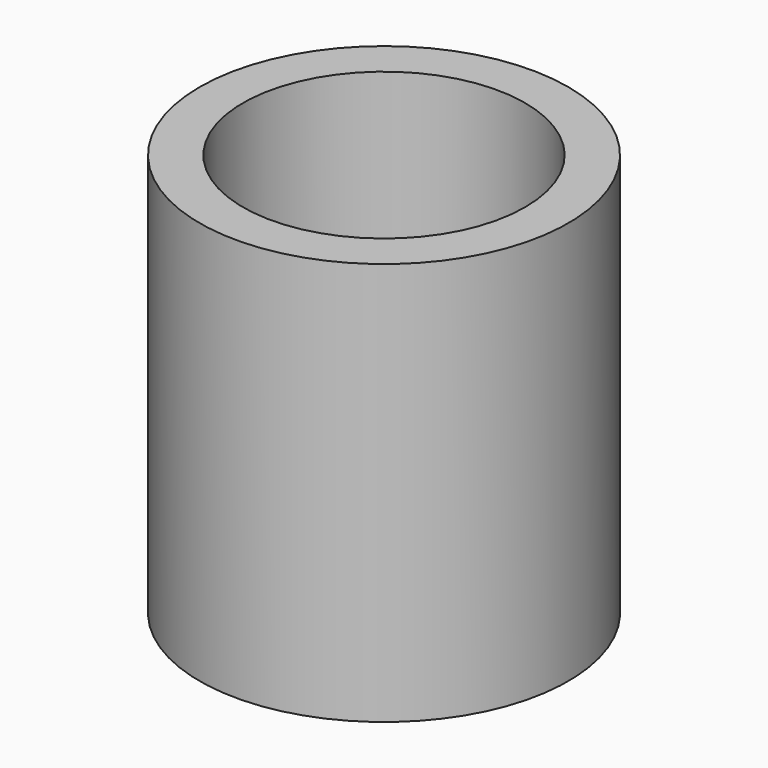
from build123d import *

# Parameters (mm, degrees)
F1_DEPTH = 5


with BuildPart() as f1:
    # F0 (on Top) → F1 (new body)
    with BuildSketch(Plane.XY):
        with BuildLine():
            Line((9.632188255, -3.5250303335), (10.168188255, -3.5250303335))
            ThreePointArc((10.168188255, -3.5250303335), (7.882188255, -1.2390303335), (5.596188255, -3.5250303335))
            Line((5.596188255, -3.5250303335), (6.132188255, -3.5250303335))
            ThreePointArc((6.132188255, -3.5250303335), (7.882188255, -1.7750303335), (9.632188255, -3.5250303335))
        make_face()
        with BuildLine():
            ThreePointArc((5.596188255, -3.5250303335), (7.882188255, -5.8110303335), (10.168188255, -3.5250303335))
            Line((10.168188255, -3.5250303335), (9.632188255, -3.5250303335))
            ThreePointArc((9.632188255, -3.5250303335), (7.882188255, -5.2750303335), (6.132188255, -3.5250303335))
            Line((6.132188255, -3.5250303335), (5.596188255, -3.5250303335))
        make_face()
    extrude(amount=F1_DEPTH)


solid = f1.part
